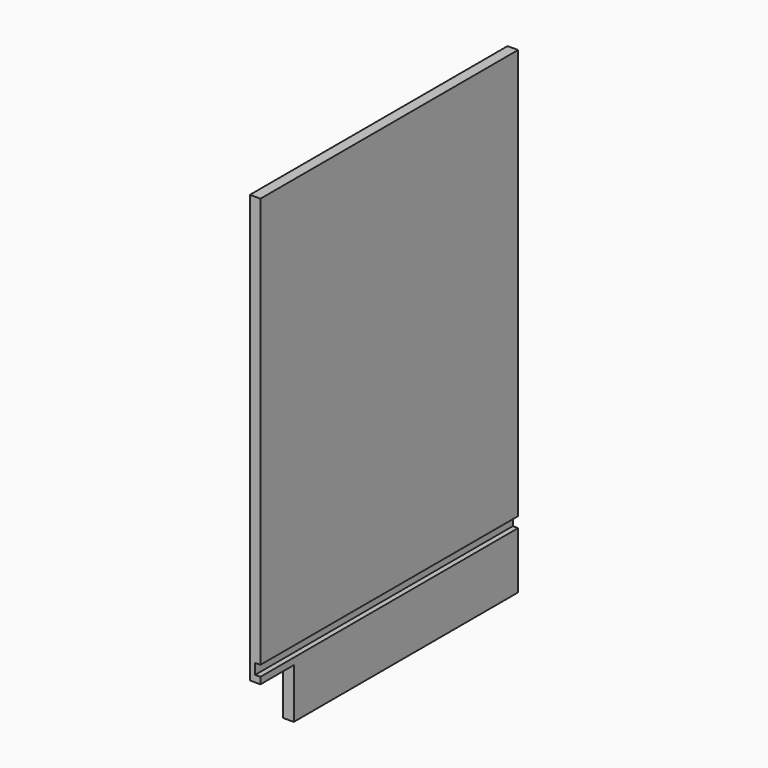
from build123d import *

# Parameters (mm, degrees)
F1_DEPTH = 19
F2_W     = 9.5
F2_H     = 19
F3_DEPTH = 580.001


with BuildPart() as f1:
    # F0 (on Right) → F1 (new body)
    with BuildSketch(Plane.YZ):
        Polygon((-505, 0), (0, 0), (0, 860), (-580, 860), (-580, 90), (-505, 90), align=None)
    extrude(amount=F1_DEPTH)

    # F2 (on Front) → F3 (cut, through all)
    with BuildSketch(Plane.XZ):
        with Locations((14.25, 111.5)):
            Rectangle(F2_W, F2_H)
    extrude(amount=F3_DEPTH, mode=Mode.SUBTRACT)


solid = f1.part
